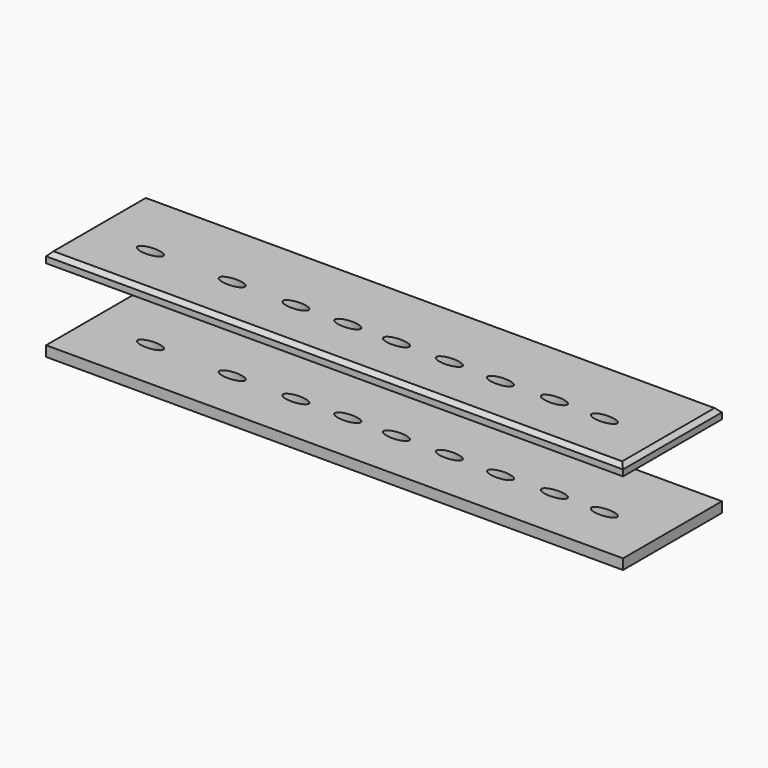
from build123d import *

# Parameters (mm, degrees)
F0_W     = 355.6
F0_H     = 76.2
F1_DEPTH = 6.35
F3_SIZE  = 2.54


with BuildPart() as f1:
    # F0 (on Top) → F1 (new body)
    with BuildSketch(Plane.XY):
        with Locations((17.5174328566, 5.3787450254)):
            Rectangle(F0_W, F0_H)
        with BuildLine():
            add(Edge.make_bspline(
                [(-113.3175566792, -1.0649711989), (-113.3175566792, 4.6562505882), (-125.2405725014, 1.7956396946), (-137.1635883235, -1.0649711989), (-125.2405725014, -3.9255820925), (-113.3175566792, -6.786192986), (-113.3175566792, -1.0649711989)],
                knots=[0, 0, 0, 2.0943951024, 2.0943951024, 4.1887902048, 4.1887902048, 6.2831853072, 6.2831853072, 6.2831853072], degree=2, weights=[1, 0.5, 1, 0.5, 1, 0.5, 1]))
        make_face(mode=Mode.SUBTRACT)
        with BuildLine():
            add(Edge.make_bspline(
                [(-62.5652112067, -1.5279400327), (-62.5652112067, 4.1932817544), (-74.4882270288, 1.3326708609), (-86.411242851, -1.5279400327), (-74.4882270288, -4.3885509262), (-62.5652112067, -7.2491618198), (-62.5652112067, -1.5279400327)],
                knots=[0, 0, 0, 2.0943951024, 2.0943951024, 4.1887902048, 4.1887902048, 6.2831853072, 6.2831853072, 6.2831853072], degree=2, weights=[1, 0.5, 1, 0.5, 1, 0.5, 1]))
        make_face(mode=Mode.SUBTRACT)
        with BuildLine():
            add(Edge.make_bspline(
                [(-23.4480076469, -1.3722433873), (-23.4480076469, 4.3489783998), (-35.3710234691, 1.4883675062), (-47.2940392912, -1.3722433873), (-35.3710234691, -4.2328542809), (-23.4480076469, -7.0934651744), (-23.4480076469, -1.3722433873)],
                knots=[0, 0, 0, 2.0943951024, 2.0943951024, 4.1887902048, 4.1887902048, 6.2831853072, 6.2831853072, 6.2831853072], degree=2, weights=[1, 0.5, 1, 0.5, 1, 0.5, 1]))
        make_face(mode=Mode.SUBTRACT)
        with BuildLine():
            add(Edge.make_bspline(
                [(8.2627218217, -1.0229922996), (8.2627218217, 4.6982294875), (-3.6602940005, 1.837618594), (-15.5833098226, -1.0229922996), (-3.6602940005, -3.8836031931), (8.2627218217, -6.7442140866), (8.2627218217, -1.0229922996)],
                knots=[0, 0, 0, 2.0943951024, 2.0943951024, 4.1887902048, 4.1887902048, 6.2831853072, 6.2831853072, 6.2831853072], degree=2, weights=[1, 0.5, 1, 0.5, 1, 0.5, 1]))
        make_face(mode=Mode.SUBTRACT)
        with BuildLine():
            add(Edge.make_bspline(
                [(38.2583003221, -0.9820839555), (38.2583003221, 4.7391378316), (26.3352844999, 1.8785269381), (14.4122686778, -0.9820839555), (26.3352844999, -3.842694849), (38.2583003221, -6.7033057426), (38.2583003221, -0.9820839555)],
                knots=[0, 0, 0, 2.0943951024, 2.0943951024, 4.1887902048, 4.1887902048, 6.2831853072, 6.2831853072, 6.2831853072], degree=2, weights=[1, 0.5, 1, 0.5, 1, 0.5, 1]))
        make_face(mode=Mode.SUBTRACT)
        with BuildLine():
            add(Edge.make_bspline(
                [(70.8005875349, -0.9820839555), (70.8005875349, 4.7391378316), (58.8775717128, 1.8785269381), (46.9545558906, -0.9820839555), (58.8775717128, -3.842694849), (70.8005875349, -6.7033057426), (70.8005875349, -0.9820839555)],
                knots=[0, 0, 0, 2.0943951024, 2.0943951024, 4.1887902048, 4.1887902048, 6.2831853072, 6.2831853072, 6.2831853072], degree=2, weights=[1, 0.5, 1, 0.5, 1, 0.5, 1]))
        make_face(mode=Mode.SUBTRACT)
        with BuildLine():
            add(Edge.make_bspline(
                [(102.8358689509, -1.5894916073), (102.8358689509, 4.1317301798), (90.9128531288, 1.2711192862), (78.9898373066, -1.5894916073), (90.9128531288, -4.4501025009), (102.8358689509, -7.3107133944), (102.8358689509, -1.5894916073)],
                knots=[0, 0, 0, 2.0943951024, 2.0943951024, 4.1887902048, 4.1887902048, 6.2831853072, 6.2831853072, 6.2831853072], degree=2, weights=[1, 0.5, 1, 0.5, 1, 0.5, 1]))
        make_face(mode=Mode.SUBTRACT)
        with BuildLine():
            add(Edge.make_bspline(
                [(135.2694164962, -0.6132974454), (135.2694164962, 5.1079243417), (123.346400674, 2.2473134482), (111.4233848519, -0.6132974454), (123.346400674, -3.4739083389), (135.2694164962, -6.3345192325), (135.2694164962, -0.6132974454)],
                knots=[0, 0, 0, 2.0943951024, 2.0943951024, 4.1887902048, 4.1887902048, 6.2831853072, 6.2831853072, 6.2831853072], degree=2, weights=[1, 0.5, 1, 0.5, 1, 0.5, 1]))
        make_face(mode=Mode.SUBTRACT)
        with BuildLine():
            add(Edge.make_bspline(
                [(166.2537008524, -0.8491628036), (166.2537008524, 4.8720589834), (154.3306850302, 2.0114480899), (142.4076692081, -0.8491628036), (154.3306850302, -3.7097736972), (166.2537008524, -6.5703845907), (166.2537008524, -0.8491628036)],
                knots=[0, 0, 0, 2.0943951024, 2.0943951024, 4.1887902048, 4.1887902048, 6.2831853072, 6.2831853072, 6.2831853072], degree=2, weights=[1, 0.5, 1, 0.5, 1, 0.5, 1]))
        make_face(mode=Mode.SUBTRACT)
    extrude(amount=F1_DEPTH)


with BuildPart() as f2_1:
    # F2: copy of F1
    add(f1.part.moved(Location((0, 0, -50.8))))


with BuildPart() as f1_1:
    add(f1.part)

    # F3
    f3_edges = [f1_1.edges().sort_by_distance(p)[0] for p in [
        (-160.282567, 5.378745, 6.35),
        (17.517433, -32.721255, 6.35),
        (17.517433, 43.478745, 6.35),
        (195.317433, 5.378745, 6.35),
    ]]
    chamfer(f3_edges, length=F3_SIZE)


solid = Compound([f2_1.part, f1_1.part])
